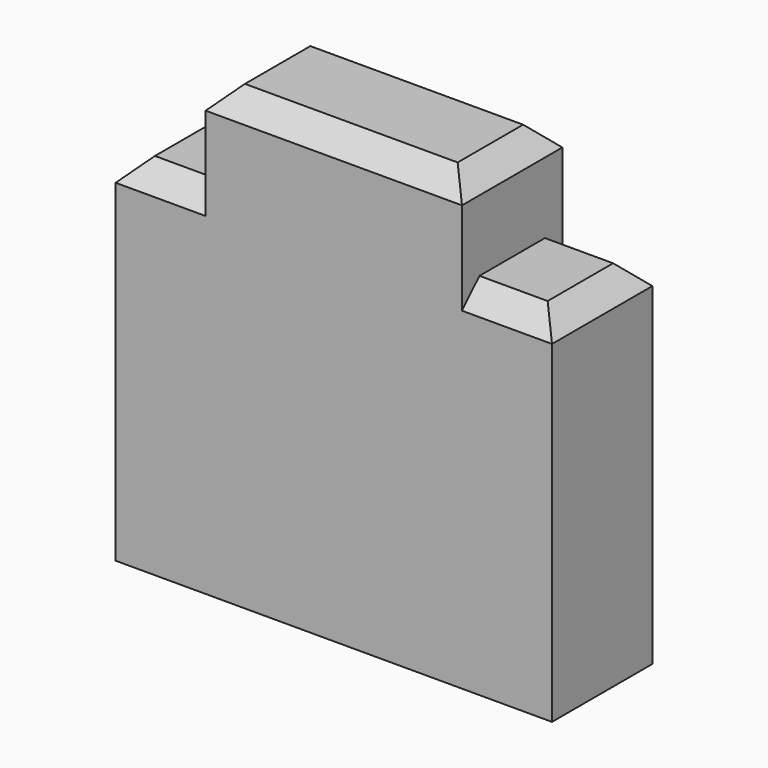
from build123d import *

# Parameters (mm, degrees)
SKETCH008_W     = 4
SKETCH008_H     = 1.15
PAD005_DEPTH    = 4.1
SKETCH009_W     = 0.825
SKETCH009_H     = 0.85
POCKET002_DEPTH = 5
CHAMFER005_SIZE = 0.2


with BuildPart() as part:
    # Sketch008 → Pad005 (new body)
    with BuildSketch(Plane.XY):
        Rectangle(SKETCH008_W, SKETCH008_H)
    extrude(amount=PAD005_DEPTH)

    # Sketch009 (on Face1 of Pad005) → Pocket002 (cut)
    with BuildSketch(Plane(origin=(0, 0.575, 0), x_dir=(-1, 0, 0), z_dir=(0, 1, 0))):
        with Locations((-1.5875, 3.675)):
            Rectangle(SKETCH009_W, SKETCH009_H)
        with Locations((1.5875, 3.675)):
            Rectangle(SKETCH009_W, SKETCH009_H)
    extrude(amount=-POCKET002_DEPTH, mode=Mode.SUBTRACT)

    # Chamfer005
    chamfer005_edges = [part.edges().sort_by_distance(p)[0] for p in [
        (0, 0.575, 4.1),
        (0, -0.575, 4.1),
        (1.5875, 0.575, 3.25),
        (-1.5875, 0.575, 3.25),
        (-1.5875, -0.575, 3.25),
        (1.5875, -0.575, 3.25),
        (2, 0, 3.25),
        (-2, 0, 3.25),
        (1.175, 0, 4.1),
        (-1.175, 0, 4.1),
    ]]
    chamfer(chamfer005_edges, length=CHAMFER005_SIZE)


with BuildPart() as part_1:
    # Body040 placement: moved
    add(part.part.moved(Location((0, 36, 0))))


solid = part_1.part
